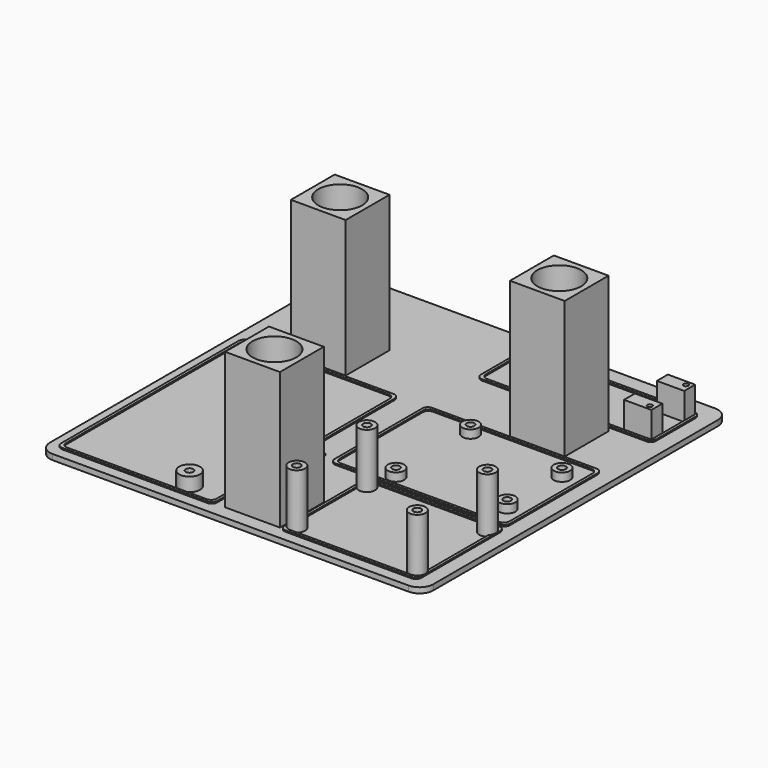
from build123d import *

# Parameters (mm, degrees)
PAD_DEPTH     = 2
SKETCH002_W   = 20
SKETCH002_H   = 20
PAD001_DEPTH  = 50
SKETCH004_R   = 8
POCKET_DEPTH  = 52.001
PAD002_DEPTH  = 0.5
SKETCH010_R   = 3.8
SKETCH010_R_2 = 1.4
PAD003_DEPTH  = 5
SKETCH011_R   = 3
SKETCH011_R_2 = 1.4
PAD004_DEPTH  = 20
SKETCH012_W   = 5
SKETCH012_H   = 20
SKETCH012_R   = 0.9
SKETCH012_W_2 = 10
SKETCH012_H_2 = 5
PAD005_DEPTH  = 10
SKETCH013_R   = 3
SKETCH013_R_2 = 1.4
PAD006_DEPTH  = 3


with BuildPart() as part:
    # Sketch → Pad (new body)
    with BuildSketch(Plane.XY):
        with BuildLine():
            Line((-65, 70), (65, 70))
            ThreePointArc((70, 65), (68.535534, 68.535534), (65, 70))
            Line((70, 65), (70, -65))
            ThreePointArc((65, -70), (68.535534, -68.535534), (70, -65))
            Line((65, -70), (-65, -70))
            ThreePointArc((-70, -65), (-68.535534, -68.535534), (-65, -70))
            Line((-70, -65), (-70, 65))
            ThreePointArc((-65, 70), (-68.535534, 68.535534), (-70, 65))
        make_face()
    extrude(amount=PAD_DEPTH)

    # Sketch002 → Pad001 (new body)
    with BuildSketch(Plane.XY.offset(2)):
        with Locations((-40, 30)):
            Rectangle(SKETCH002_W, SKETCH002_H)
        with Locations((4, -55)):
            Rectangle(SKETCH002_W, SKETCH002_H)
        with Locations((40, 30)):
            Rectangle(SKETCH002_W, SKETCH002_H)
    extrude(amount=PAD001_DEPTH)

    # Sketch004 → Pocket (cut, through all)
    with BuildSketch(Plane.XY.offset(52)):
        with Locations((-40, 30)):
            Circle(SKETCH004_R)
        with Locations((40, 30)):
            Circle(SKETCH004_R)
        with Locations((4, -55)):
            Circle(SKETCH004_R)
    extrude(amount=-POCKET_DEPTH, mode=Mode.SUBTRACT)

    # Sketch001 → Pad002 (new body)
    with BuildSketch(Plane.XY.offset(2)):
        with BuildLine():
            Line((2.307479, 19.099802), (62.307479, 19.099802))
            ThreePointArc((64.307479, 17.099802), (63.721693, 18.514015), (62.307479, 19.099802))
            Line((64.307479, 17.099802), (64.307479, -22.900198))
            ThreePointArc((62.307479, -24.900198), (63.721693, -24.314412), (64.307479, -22.900198))
            Line((62.307479, -24.900198), (2.307479, -24.900198))
            ThreePointArc((0.307479, -22.900198), (0.893266, -24.314412), (2.307479, -24.900198))
            Line((0.307479, -22.900198), (0.307479, 17.099802))
            ThreePointArc((2.307479, 19.099802), (0.893266, 18.514015), (0.307479, 17.099802))
        make_face()
        with BuildLine():
            Line((3.307479, 18.099802), (61.307479, 18.099802))
            ThreePointArc((63.307479, 16.099802), (62.721693, 17.514015), (61.307479, 18.099802))
            Line((63.307479, 16.099802), (63.307479, -21.900198))
            ThreePointArc((61.307479, -23.900198), (62.721693, -23.314412), (63.307479, -21.900198))
            Line((61.307479, -23.900198), (3.307479, -23.900198))
            ThreePointArc((1.307479, -21.900198), (1.893266, -23.314412), (3.307479, -23.900198))
            Line((1.307479, -21.900198), (1.307479, 16.099802))
            ThreePointArc((3.307479, 18.099802), (1.893266, 17.514015), (1.307479, 16.099802))
        make_face(mode=Mode.SUBTRACT)
        with BuildLine():
            Line((16.890482, -26.060452), (62.890482, -26.060452))
            ThreePointArc((64.890482, -28.060452), (64.304696, -26.646238), (62.890482, -26.060452))
            Line((64.890482, -28.060452), (64.890482, -64.060452))
            ThreePointArc((62.890482, -66.060452), (64.304696, -65.474665), (64.890482, -64.060452))
            Line((62.890482, -66.060452), (16.890482, -66.060452))
            ThreePointArc((14.890482, -64.060452), (15.476269, -65.474665), (16.890482, -66.060452))
            Line((14.890482, -64.060452), (14.890482, -28.060452))
            ThreePointArc((16.890482, -26.060452), (15.476269, -26.646238), (14.890482, -28.060452))
        make_face()
        with BuildLine():
            Line((17.890482, -27.060452), (61.890482, -27.060452))
            ThreePointArc((63.890482, -29.060452), (63.304696, -27.646238), (61.890482, -27.060452))
            Line((63.890482, -29.060452), (63.890482, -63.060452))
            ThreePointArc((61.890482, -65.060452), (63.304696, -64.474665), (63.890482, -63.060452))
            Line((61.890482, -65.060452), (17.890482, -65.060452))
            ThreePointArc((15.890482, -63.060452), (16.476269, -64.474665), (17.890482, -65.060452))
            Line((15.890482, -63.060452), (15.890482, -29.060452))
            ThreePointArc((17.890482, -27.060452), (16.476269, -27.646238), (15.890482, -29.060452))
        make_face(mode=Mode.SUBTRACT)
        with BuildLine():
            Line((-64.647393, 18.925724), (-11.647393, 18.925724))
            ThreePointArc((-9.647393, 16.925724), (-10.233179, 18.339937), (-11.647393, 18.925724))
            Line((-9.647393, -22.074276), (-9.647393, 16.925724))
            Line((-3.647393, -22.074276), (-9.647393, -22.074276))
            Line((-3.647393, -29.074276), (-3.647393, -22.074276))
            Line((-9.647393, -29.074276), (-3.647393, -29.074276))
            Line((-9.647393, -64.074276), (-9.647393, -29.074276))
            ThreePointArc((-11.647393, -66.074276), (-10.233179, -65.48849), (-9.647393, -64.074276))
            Line((-11.647393, -66.074276), (-64.647393, -66.074276))
            ThreePointArc((-66.647393, -64.074276), (-66.061606, -65.48849), (-64.647393, -66.074276))
            Line((-66.647393, -64.074276), (-66.647393, 16.925724))
            ThreePointArc((-64.647393, 18.925724), (-66.061606, 18.339937), (-66.647393, 16.925724))
        make_face()
        with BuildLine():
            Line((-63.647393, 17.925724), (-12.647393, 17.925724))
            ThreePointArc((-10.647393, 15.925724), (-11.233179, 17.339937), (-12.647393, 17.925724))
            Line((-10.647393, 15.925724), (-10.647393, -63.074276))
            ThreePointArc((-12.647393, -65.074276), (-11.233179, -64.48849), (-10.647393, -63.074276))
            Line((-12.647393, -65.074276), (-63.647393, -65.074276))
            ThreePointArc((-65.647393, -63.074276), (-65.061606, -64.48849), (-63.647393, -65.074276))
            Line((-65.647393, -63.074276), (-65.647393, 15.925724))
            ThreePointArc((-63.647393, 17.925724), (-65.061606, 17.339937), (-65.647393, 15.925724))
        make_face(mode=Mode.SUBTRACT)
        with BuildLine():
            Line((2.324005, 63.83459), (62.324005, 63.83459))
            ThreePointArc((64.324005, 61.83459), (63.738218, 63.248804), (62.324005, 63.83459))
            Line((64.324005, 61.83459), (64.324005, 43.83459))
            ThreePointArc((62.324005, 41.83459), (63.738218, 42.420377), (64.324005, 43.83459))
            Line((62.324005, 41.83459), (2.324005, 41.83459))
            ThreePointArc((0.324005, 43.83459), (0.909791, 42.420377), (2.324005, 41.83459))
            Line((0.324005, 43.83459), (0.324005, 61.83459))
            ThreePointArc((2.324005, 63.83459), (0.909791, 63.248804), (0.324005, 61.83459))
        make_face()
        with BuildLine():
            Line((3.324005, 62.83459), (61.324005, 62.83459))
            ThreePointArc((63.324005, 60.83459), (62.738218, 62.248804), (61.324005, 62.83459))
            Line((63.324005, 60.83459), (63.324005, 44.83459))
            ThreePointArc((61.324005, 42.83459), (62.738218, 43.420377), (63.324005, 44.83459))
            Line((61.324005, 42.83459), (3.324005, 42.83459))
            ThreePointArc((1.324005, 44.83459), (1.909791, 43.420377), (3.324005, 42.83459))
            Line((1.324005, 44.83459), (1.324005, 60.83459))
            ThreePointArc((3.324005, 62.83459), (1.909791, 62.248804), (1.324005, 60.83459))
        make_face(mode=Mode.SUBTRACT)
    extrude(amount=PAD002_DEPTH)

    # Sketch010 → Pad003 (new body)
    with BuildSketch(Plane.XY.offset(2)):
        with Locations((-22.147393, -61.074276)):
            Circle(SKETCH010_R)
        with Locations((-22.147393, -61.074276)):
            Circle(SKETCH010_R_2, mode=Mode.SUBTRACT)
        with Locations((-47.147393, -7.074276)):
            Circle(SKETCH010_R)
        with Locations((-47.147393, -7.074276)):
            Circle(SKETCH010_R_2, mode=Mode.SUBTRACT)
    extrude(amount=PAD003_DEPTH)

    # Sketch011 → Pad004 (new body)
    with BuildSketch(Plane.XY.offset(2)):
        with Locations((17.810321, -30.060452)):
            Circle(SKETCH011_R)
        with Locations((17.810321, -30.060452)):
            Circle(SKETCH011_R_2, mode=Mode.SUBTRACT)
        with Locations((61.810321, -30.060452)):
            Circle(SKETCH011_R)
        with Locations((61.810321, -30.060452)):
            Circle(SKETCH011_R_2, mode=Mode.SUBTRACT)
        with Locations((61.810321, -62.060452)):
            Circle(SKETCH011_R)
        with Locations((61.810321, -62.060452)):
            Circle(SKETCH011_R_2, mode=Mode.SUBTRACT)
        with Locations((17.810321, -62.060452)):
            Circle(SKETCH011_R)
        with Locations((17.810321, -62.060452)):
            Circle(SKETCH011_R_2, mode=Mode.SUBTRACT)
    extrude(amount=PAD004_DEPTH)

    # Sketch012 → Pad005 (new body)
    with BuildSketch(Plane.XY.offset(2)):
        with Locations((23.828853, 52.895568)):
            Rectangle(SKETCH012_W, SKETCH012_H)
        with Locations((23.828853, 61.145568)):
            Circle(SKETCH012_R, mode=Mode.SUBTRACT)
        with Locations((23.828853, 44.645568)):
            Circle(SKETCH012_R, mode=Mode.SUBTRACT)
        with Locations((58.328853, 60.395568)):
            Rectangle(SKETCH012_W_2, SKETCH012_H_2)
        with Locations((61.328853, 61.145568)):
            Circle(SKETCH012_R, mode=Mode.SUBTRACT)
        with Locations((58.328853, 45.395568)):
            Rectangle(SKETCH012_W_2, SKETCH012_H_2)
        with Locations((61.328853, 44.645568)):
            Circle(SKETCH012_R, mode=Mode.SUBTRACT)
    extrude(amount=PAD005_DEPTH)

    # Sketch013 → Pad006 (new body)
    with BuildSketch(Plane.XY.offset(2)):
        with Locations((20.307479, 14.099802)):
            Circle(SKETCH013_R)
        with Locations((20.307479, 14.099802)):
            Circle(SKETCH013_R_2, mode=Mode.SUBTRACT)
        with Locations((20.307479, -19.900198)):
            Circle(SKETCH013_R)
        with Locations((20.307479, -19.900198)):
            Circle(SKETCH013_R_2, mode=Mode.SUBTRACT)
        with Locations((57.307479, 9.599802)):
            Circle(SKETCH013_R)
        with Locations((57.307479, 9.599802)):
            Circle(SKETCH013_R_2, mode=Mode.SUBTRACT)
        with Locations((57.307479, -15.400198)):
            Circle(SKETCH013_R)
        with Locations((57.307479, -15.400198)):
            Circle(SKETCH013_R_2, mode=Mode.SUBTRACT)
    extrude(amount=PAD006_DEPTH)


solid = part.part
